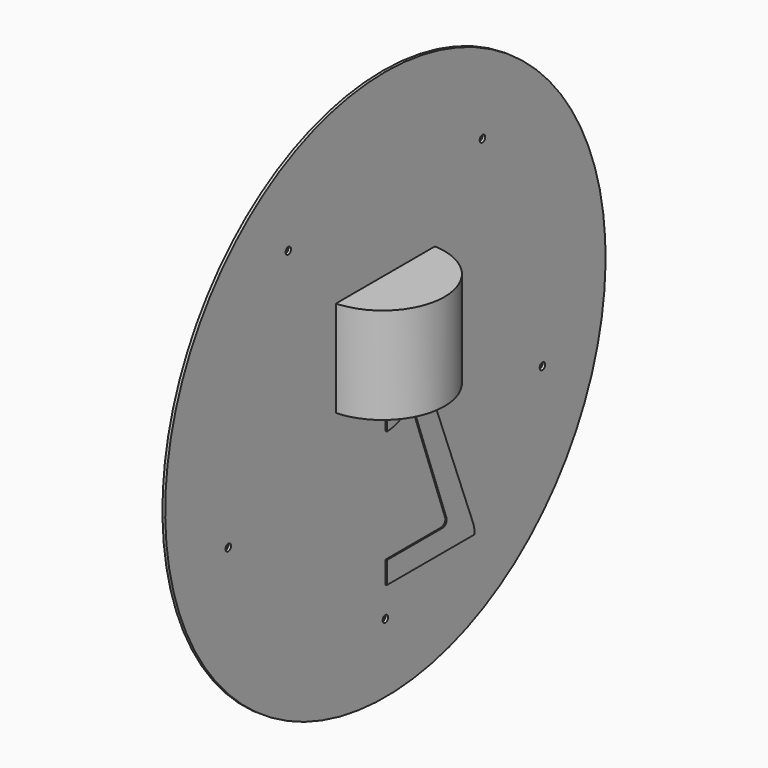
from build123d import *

# Parameters (mm, degrees)
PAD_DEPTH          = 3
PAD001_DEPTH       = 10
PAD002_DEPTH       = 24
CYLINDER_R         = 45
CYLINDER_DEPTH     = 70
SKETCH003_R        = 2.5
PAD003_DEPTH       = 2
POLARPATTERN_COUNT = 5


with BuildPart() as body:
    # Sketch → Pad (new body)
    with BuildSketch(Plane.YZ):
        with BuildLine():
            ThreePointArc((0, -13.851561), (13.851561, 0), (0, 13.851561))
            Line((0, 13.851561), (0, 29.851561))
            ThreePointArc((27.84628, 10.756412), (16.882239, 24.619214), (0, 29.851561))
            Line((27.84628, 10.756412), (78.343417, -119.970962))
            ThreePointArc((79.855864, -128.083789), (79.474523, -123.957488), (78.343417, -119.970962))
            Line((79.855864, -128.083789), (0, -128.083789))
            Line((0, -128.083789), (0, -112.083789))
            Line((0, -112.083789), (50.766069, -112.083789))
            ThreePointArc((50.766069, -112.083789), (53.793496, -110.508222), (54.24005, -107.124686))
            Line((54.24005, -107.124686), (22.452344, -19.672517))
            ThreePointArc((0, -29.851561), (12.325996, -27.187966), (22.452344, -19.672517))
            Line((0, -29.851561), (0, -13.851561))
        make_face()
    extrude(amount=PAD_DEPTH)


with BuildPart() as body001:
    # Sketch001 → Pad001 (new body)
    with BuildSketch(Plane.YZ):
        with BuildLine():
            Line((0, 0), (0, 25.652428))
            ThreePointArc((24.396909, 7.927036), (15.078119, 20.75325), (0, 25.652428))
            Line((0, 0), (24.396909, 7.927036))
        make_face()
    extrude(amount=PAD001_DEPTH)

    # Sketch002 → Pad002 (join)
    with BuildSketch(Plane.YZ):
        with BuildLine():
            ThreePointArc((4.755283, 1.545085), (2.938926, 4.045085), (0, 5))
            Line((0, 0), (0, 5))
            Line((0, 0), (4.755283, 1.545085))
        make_face()
    extrude(amount=PAD002_DEPTH)


with BuildPart() as cylinder:
    # Cylinder → Cylinder (new body)
    with BuildSketch(Plane.XY):
        Circle(CYLINDER_R)
    extrude(amount=CYLINDER_DEPTH)


with BuildPart() as body002:
    # Sketch003 → Pad003 (new body)
    with BuildSketch(Plane.YZ):
        with BuildLine():
            ThreePointArc((190.211303, 61.803399), (117.55705, 161.803399), (0, 200))
            Line((0, 0), (0, 200))
            Line((0, 0), (190.211303, 61.803399))
        make_face()
        with Locations((88.167788, 121.352549)):
            Circle(SKETCH003_R, mode=Mode.SUBTRACT)
    pad003 = extrude(amount=PAD003_DEPTH)

    # PolarPattern: Pad003 ×5 about axis
    polarpattern_axis = Axis((0, 0, 0), (1, 0, 0))
    for i in range(1, POLARPATTERN_COUNT):
        add(pad003.rotate(polarpattern_axis, i * 360 / POLARPATTERN_COUNT))


solid = Compound([body.part, body001.part, cylinder.part, body002.part])
